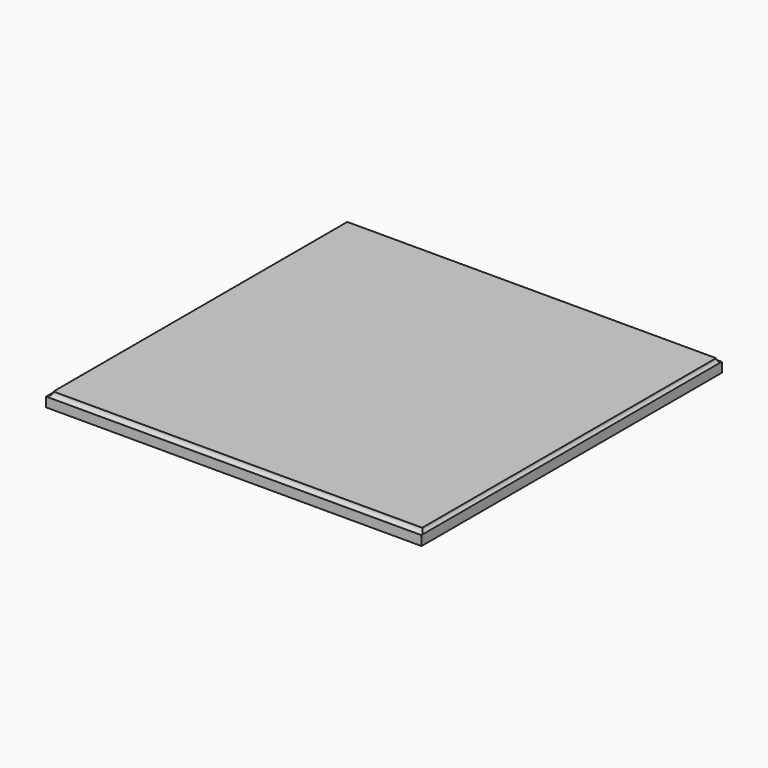
from build123d import *

# Parameters (mm, degrees)
F0_W      = 349.25
F0_H      = 349.25
F1_DEPTH  = 12.7
F4_DEPTH  = 349.251
F5_DEPTH  = 349.251
F3_R      = 3.81
F6_DEPTH  = 349.251
F2_R      = 3.81
F7_DEPTH  = 349.251
F8_R      = 3.81
F9_DEPTH  = 349.251
F10_R     = 3.81
F11_DEPTH = 349.251


with BuildPart() as f1:
    # F0 (on Top) → F1 (new body)
    with BuildSketch(Plane.XY):
        with Locations((-17.0002015829, 64.5751319209)):
            Rectangle(F0_W, F0_H)
    extrude(amount=F1_DEPTH)

    # F3 (on face) → F4 (cut, through all)
    with BuildSketch(Plane(origin=(-191.6252015829, 0, 0), x_dir=(0, -1, 0), z_dir=(-1, 0, 0))):
        with BuildLine():
            ThreePointArc((110.0498680791, 8.89), (112.7439449154, 10.0059231637), (113.8598680791, 12.7))
            ThreePointArc((113.8598680791, 12.7), (110.0498680791, 16.51), (106.2398680791, 12.7))
            Line((106.2398680791, 12.7), (110.0498680791, 12.7))
            Line((110.0498680791, 12.7), (110.0498680791, 8.89))
        make_face()
    extrude(amount=-F4_DEPTH, mode=Mode.SUBTRACT)

    # F2 (on face) → F5 (cut, through all)
    with BuildSketch(Plane.XZ.offset(110.0498680791)):
        with BuildLine():
            Line((-191.6252015829, 12.7), (-187.8152015829, 12.7))
            ThreePointArc((-187.8152015829, 12.7), (-194.3192784192, 15.3940768363), (-191.6252015829, 8.89))
            Line((-191.6252015829, 8.89), (-191.6252015829, 12.7))
        make_face()
    extrude(amount=-F5_DEPTH, mode=Mode.SUBTRACT)

    # F3 (on face) → F6 (cut, through all)
    with BuildSketch(Plane(origin=(-191.6252015829, 0, 0), x_dir=(0, -1, 0), z_dir=(-1, 0, 0))):
        with Locations((110.0498680791, 12.7)):
            Circle(F3_R)
        with Locations((-239.2001319209, 12.7)):
            Circle(F3_R)
    extrude(amount=-F6_DEPTH, mode=Mode.SUBTRACT)

    # F2 (on face) → F7 (cut, through all)
    with BuildSketch(Plane.XZ.offset(110.0498680791)):
        with Locations((-191.6252015829, 12.7)):
            Circle(F2_R)
    extrude(amount=-F7_DEPTH, mode=Mode.SUBTRACT)

    # F8 (on face) → F9 (cut, through all)
    with BuildSketch(Plane.XZ.offset(110.0498680791)):
        with Locations((189.3937587738, 12.5737581402)):
            Circle(F8_R)
    extrude(amount=-F9_DEPTH, mode=Mode.SUBTRACT)

    # F10 (on face) → F11 (cut, through all)
    with BuildSketch(Plane.XZ.offset(110.0498680791)):
        with Locations((159.0561419725, 12.6355821267)):
            Circle(F10_R)
    extrude(amount=-F11_DEPTH, mode=Mode.SUBTRACT)


solid = f1.part
